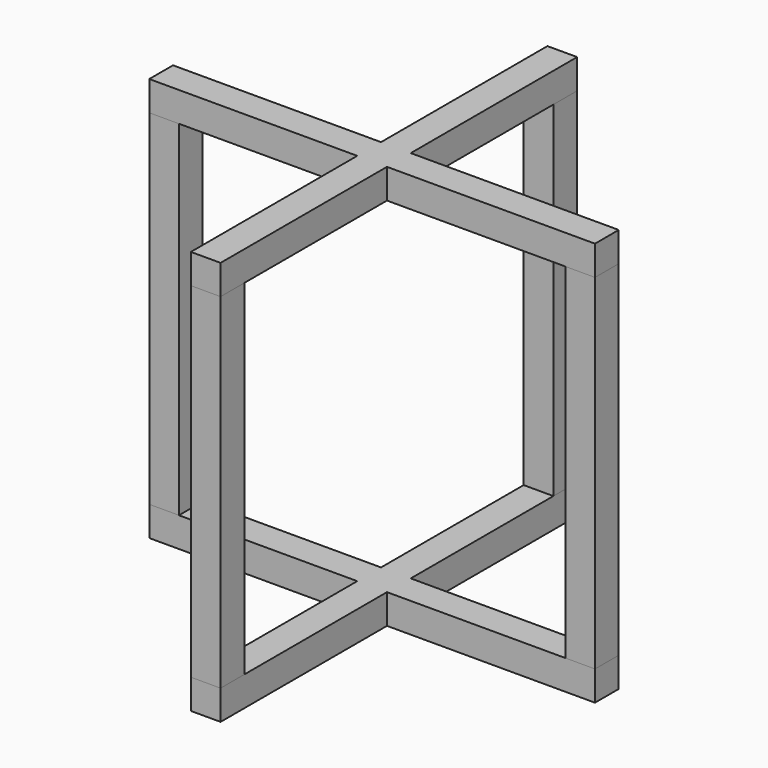
from build123d import *

# Parameters (mm, degrees)
F1_DEPTH = 680
F2_W     = 582.338988781
F2_H     = 580
F3_DEPTH = 400.001
F4_W     = 50
F4_H     = 580
F5_DEPTH = 350.001
F6_W     = 50
F6_H     = 580
F7_DEPTH = 167.662011219
F8_W     = 50
F8_H     = 50
F9_DEPTH = 580


with BuildPart() as f1:
    # F0 (on Top) → F1 (new body)
    with BuildSketch(Plane.XY):
        Polygon((0, 50), (0, 0), (350, 0), (350, -350), (400, -350), (400, 0), (750, 0), (750, 50), (400, 50), (400, 400), (350, 400), (350, 50), align=None)
    extrude(amount=F1_DEPTH)

    # F2 (on face) → F3 (cut, through all)
    with BuildSketch(Plane.XZ):
        with Locations((291.1694943905, 340)):
            Rectangle(F2_W, F2_H)
    extrude(amount=-F3_DEPTH, mode=Mode.SUBTRACT)

    # F4 (on face) → F5 (cut, through all)
    with BuildSketch(Plane(origin=(0, 0, 0), x_dir=(-1, 0, 0), z_dir=(0, 1, 0))):
        with Locations((-375, 340)):
            Rectangle(F4_W, F4_H)
    extrude(amount=-F5_DEPTH, mode=Mode.SUBTRACT)

    # F6 (on face) → F7 (cut, through all)
    with BuildSketch(Plane(origin=(582.338988781, 0, 0), x_dir=(0, -1, 0), z_dir=(-1, 0, 0))):
        with Locations((-25, 340)):
            Rectangle(F6_W, F6_H)
    extrude(amount=-F7_DEPTH, mode=Mode.SUBTRACT)


with BuildPart() as f9:
    # F8 (on face) → F9 (new body, through all)
    with BuildSketch(Plane.XY.offset(50)):
        with Locations((725, 25)):
            Rectangle(F8_W, F8_H)
    extrude(amount=F9_DEPTH)


with BuildPart() as f9b:
    # F8 (on face) → F9, piece 2 (new body, through all)
    with BuildSketch(Plane.XY.offset(50)):
        with Locations((375, 375)):
            Rectangle(F8_W, F8_H)
    extrude(amount=F9_DEPTH)


with BuildPart() as f9c:
    # F8 (on face) → F9, piece 3 (new body, through all)
    with BuildSketch(Plane.XY.offset(50)):
        with Locations((25, 25)):
            Rectangle(F8_W, F8_H)
    extrude(amount=F9_DEPTH)


with BuildPart() as f9d:
    # F8 (on face) → F9, piece 4 (new body, through all)
    with BuildSketch(Plane.XY.offset(50)):
        with Locations((375, -325)):
            Rectangle(F8_W, F8_H)
    extrude(amount=F9_DEPTH)


solid = Compound([f1.part, f9.part, f9b.part, f9c.part, f9d.part])
